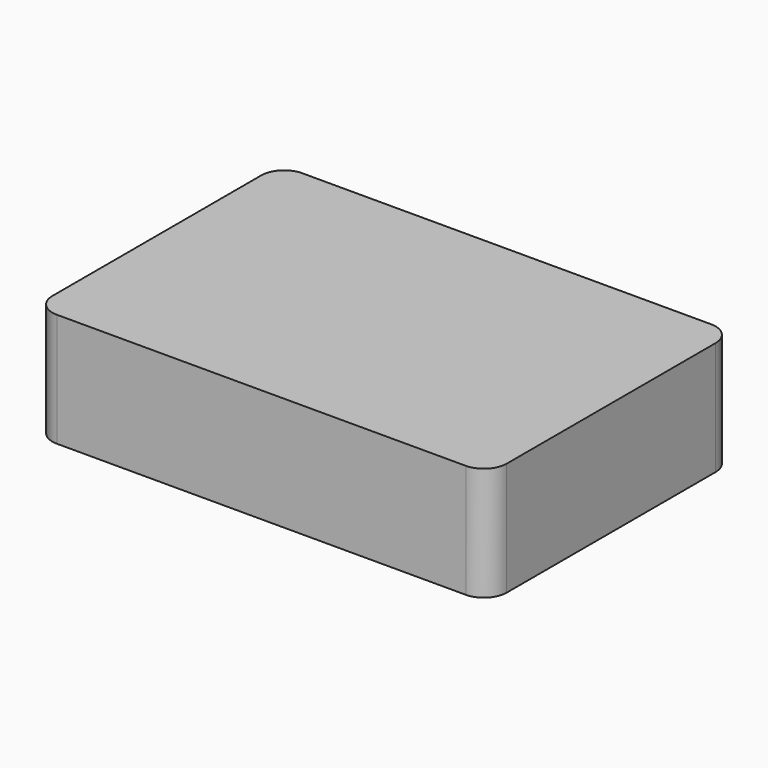
from build123d import *

# Parameters (mm, degrees)
F0_W     = 40
F0_H     = 27
F0_R     = 4.75
F0_R_2   = 4
F1_DEPTH = 10
F2_DEPTH = 2
F3_R     = 2
F4_DEPTH = 8


with BuildPart() as f1:
    # F0 (on Top) → F1 (new body)
    with BuildSketch(Plane.XY):
        Rectangle(F0_W, F0_H)
        Circle(F0_R, mode=Mode.SUBTRACT)
        Circle(F0_R)
        Circle(F0_R_2, mode=Mode.SUBTRACT)
        Circle(F0_R_2)
    extrude(amount=F1_DEPTH)

    # F0 (on Top) → F2 (cut)
    with BuildSketch(Plane.XY):
        Circle(F0_R)
        Circle(F0_R_2, mode=Mode.SUBTRACT)
    extrude(amount=F2_DEPTH, mode=Mode.SUBTRACT)

    # F3
    f3_edges = [f1.edges().sort_by_distance(p)[0] for p in [
        (20, -13.5, 5),
        (20, 13.5, 5),
        (-20, 13.5, 5),
        (-20, -13.5, 5),
    ]]
    fillet(f3_edges, radius=F3_R)

    # F4 (cut): a face of the model
    f4_faces = [f1.faces().sort_by_distance(p)[0] for p in [
        (0, 0, 0),
    ]]
    extrude(f4_faces, amount=-F4_DEPTH, mode=Mode.SUBTRACT)


solid = f1.part
